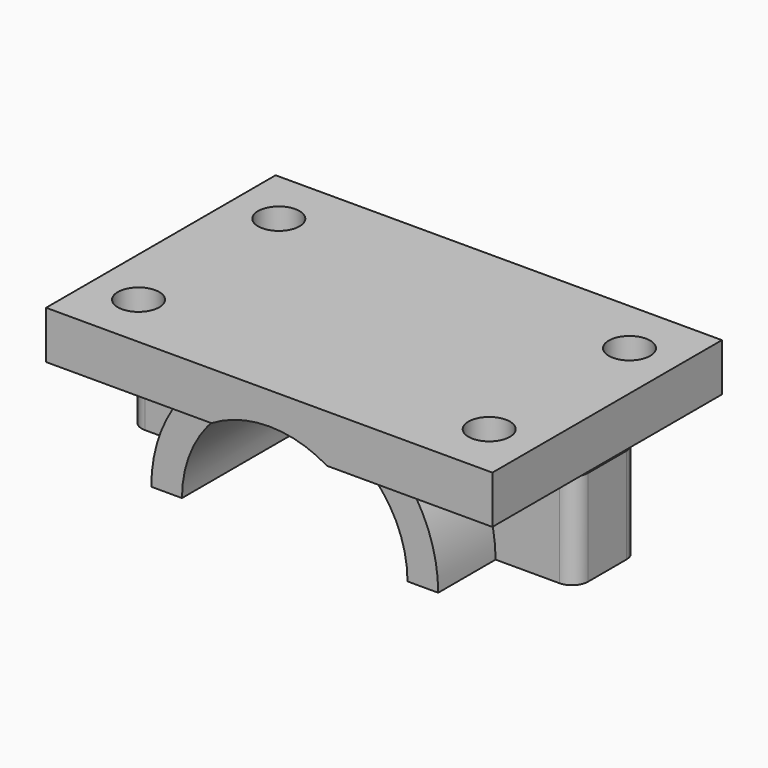
from build123d import *

# Parameters (mm, degrees)
SKETCH048_W         = 28
SKETCH048_H         = 18
PAD032_DEPTH        = 3
SKETCH049_R         = 7.075
POCKET009_DEPTH     = 18.001
PAD033_START        = -2
PAD033_DEPTH        = 14
SKETCH051_W         = 1.925
SKETCH051_H         = 5
PAD034_DEPTH        = 6
SKETCH052_W         = 5
SKETCH052_H         = 6
PAD035_DEPTH        = 5
SKETCH053_W         = 5
SKETCH053_H         = 6
PAD036_DEPTH        = 5
HOLE004_D           = 2.6
HOLE004_DEPTH       = 25
HOLE004_CBORE_D     = 4
HOLE004_CBORE_DEPTH = 1
SKETCH056_R         = 1.45
POCKET010_DEPTH     = 4
FILLET013_R         = 1
FILLET014_R         = 1


with BuildPart() as part:
    # Sketch048 (on Face1 of CopyPad022) → Pad032 (new body)
    with BuildSketch(Plane(origin=(0, 0, -2), x_dir=(1, 0, 0), z_dir=(0, 0, -1))):
        with Locations((-18.5, 29.3848)):
            Rectangle(SKETCH048_W, SKETCH048_H)
    extrude(amount=PAD032_DEPTH)

    # Sketch049 (on Face2 of Pad032) → Pocket009 (cut, through all)
    with BuildSketch(Plane(origin=(0, -20.3848, -2), x_dir=(-1, 0, 0), z_dir=(0, 1, 0))):
        with Locations((18.5, -9.075)):
            Circle(SKETCH049_R)
    extrude(amount=-POCKET009_DEPTH, mode=Mode.SUBTRACT)

    # Sketch050 (on Face2 of Pocket009) → Pad033 (join)
    with BuildSketch(Plane(origin=(0, -38.3848, -2), x_dir=(1, 0, 0), z_dir=(0, -1, 0)).offset(PAD033_START)):
        with BuildLine():
            ThreePointArc((-11.425, -9.075), (-18.5, -2), (-25.575, -9.075))
            Line((-27.5, -9.075), (-25.575, -9.075))
            ThreePointArc((-9.5, -9.075), (-18.5, -0.075), (-27.5, -9.075))
            Line((-11.425, -9.075), (-9.5, -9.075))
        make_face()
    extrude(amount=-PAD033_DEPTH)

    # Sketch051 (on Face14 of Pad033) → Pad034 (join)
    with BuildSketch(Plane(origin=(0, 0, -11.075), x_dir=(1, 0, 0), z_dir=(0, 0, -1))):
        with Locations((-26.5375, 29.3848)):
            Rectangle(SKETCH051_W, SKETCH051_H)
        with Locations((-10.4625, 29.3848)):
            Rectangle(SKETCH051_W, SKETCH051_H)
    extrude(amount=-PAD034_DEPTH)

    # Sketch052 (on Face18 of Pad034) → Pad035 (join)
    with BuildSketch(Plane(origin=(-27.5, 0, -2), x_dir=(0, -1, 0), z_dir=(-1, 0, 0))):
        with Locations((29.3848, -6.075)):
            Rectangle(SKETCH052_W, SKETCH052_H)
    extrude(amount=PAD035_DEPTH)

    # Sketch053 (on Face17 of Pad035) → Pad036 (join)
    with BuildSketch(Plane(origin=(-9.5, 0, -2), x_dir=(0, 1, 0), z_dir=(1, 0, 0))):
        with Locations((-29.3848, -6.075)):
            Rectangle(SKETCH053_W, SKETCH053_H)
    extrude(amount=PAD036_DEPTH)

    # Hole004
    with Locations(Plane(origin=(0, 0, -5), x_dir=(1, 0, 0), z_dir=(0, 0, -1))):
        with Locations((-7.5, 34.8848), (-29.5, 34.8848), (-29.5, 23.8848), (-7.5, 23.8848)):
            CounterBoreHole(HOLE004_D / 2, HOLE004_CBORE_D / 2, HOLE004_CBORE_DEPTH, depth=HOLE004_DEPTH)

    # Sketch056 → Pocket010 (cut)
    with BuildSketch(Plane(origin=(0, 0, -11.075), x_dir=(1, 0, 0), z_dir=(0, 0, -1))):
        with Locations((-8, 29.3848)):
            Circle(SKETCH056_R)
        with Locations((-29, 29.3848)):
            Circle(SKETCH056_R)
    extrude(amount=-POCKET010_DEPTH, mode=Mode.SUBTRACT)

    # Fillet013
    fillet013_edges = [part.edges().sort_by_distance(p)[0] for p in [
        (-32.5, -31.8848, -8.075),
        (-32.5, -26.8848, -8.075),
    ]]
    fillet(fillet013_edges, radius=FILLET013_R)

    # Fillet014
    fillet014_edges = [part.edges().sort_by_distance(p)[0] for p in [
        (-4.5, -26.8848, -8.075),
        (-4.5, -31.8848, -8.075),
    ]]
    fillet(fillet014_edges, radius=FILLET014_R)


with BuildPart() as part_1:
    # Body006 placement: moved
    add(part.part.moved(Location((1, 32.65, 0))))


solid = part_1.part
